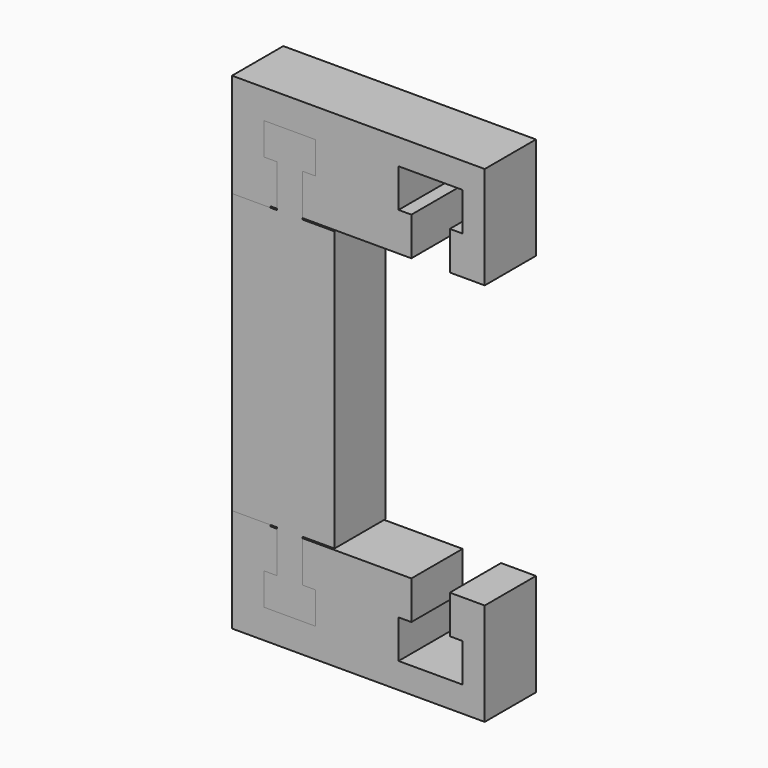
from build123d import *

# Parameters (mm, degrees)
SKETCH_W     = 19.727158
SKETCH_H     = 5
PAD_DEPTH    = 38
POCKET_DEPTH = 91.213778
PAD001_DEPTH = 5


with BuildPart() as body:
    # Sketch → Pad (new body)
    with BuildSketch(Plane.XY):
        with Locations((9.863579, -2.5)):
            Rectangle(SKETCH_W, SKETCH_H)
    extrude(amount=PAD_DEPTH)

    # Sketch001 (on DatumPlane) → Pocket (cut, through all)
    with BuildSketch(Plane(origin=(20, -5, 30), x_dir=(0, 0, 1), z_dir=(0, -1, 0))):
        Polygon((0, 17), (-11, 17), (-11, 0), (0, 0), (0, 3), (3, 3), (3, 2), (6, 2), (6, 7), (3, 7), (3, 6), (0, 6), (0, 8), align=None)
    pocket = extrude(amount=-POCKET_DEPTH, mode=Mode.SUBTRACT)

    # Mirrored: Pocket across Sketch001 Axis3
    add(pocket.mirror(Plane(origin=(-21.528492, -5, 19), x_dir=(0, -1, 0), z_dir=(0, 0, 1))), mode=Mode.SUBTRACT)


with BuildPart() as obj1:
    # Sketch004 → Pad001 (new body)
    with BuildSketch(Plane.XZ):
        Polygon((0, 29.897505), (3.5, 29.897505), (3.5, 33.221244), (2.5, 33.221244), (2.5, 35.721244), (6.5, 35.721244), (6.5, 33.221244), (5.5, 33.221244), (5.5, 29.897505), (8, 29.897505), (8, 19), (0, 19), align=None)
    pad001 = extrude(amount=PAD001_DEPTH)

    # Mirrored001: Pad001 across Sketch004 Axis2
    add(pad001.mirror(Plane(origin=(-14.053349, 0, 19), x_dir=(0, -1, 0), z_dir=(0, 0, 1))))


solid = Compound([body.part, obj1.part])
